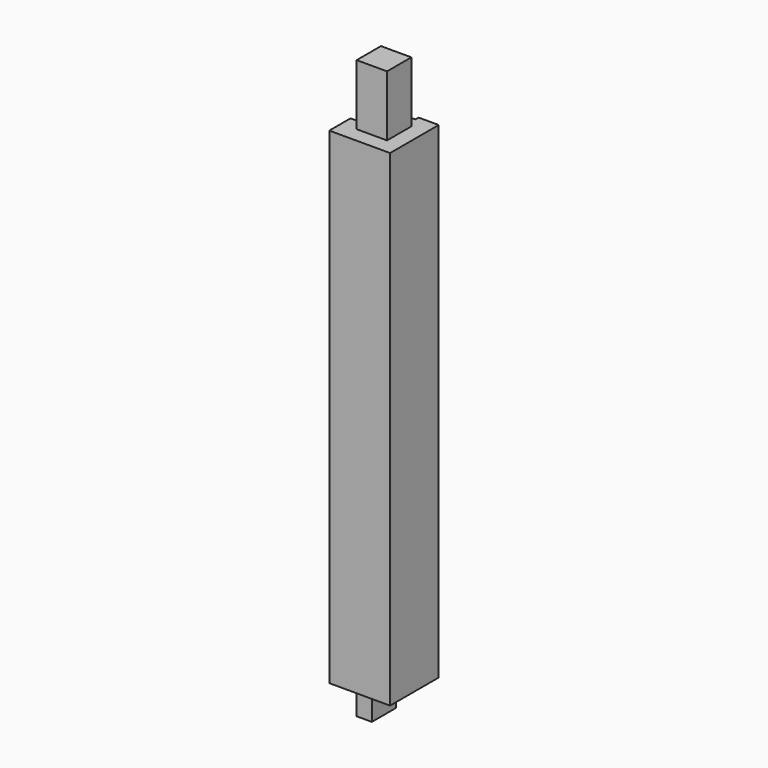
from build123d import *

# Parameters (mm, degrees)
F0_W     = 25.4
F0_H     = 25.4
F1_DEPTH = 203.2
F2_W     = 12.7
F2_H     = 12.7
F3_DEPTH = 12.7
F4_W     = 6.35
F4_H     = 12.7
F5_DEPTH = 12.7
F6_W     = 3.762882
F6_H     = 3.762882
F6_W_2   = 3.175
F6_H_2   = 3.175
F7_DEPTH = 177.8
F8_W     = 12.7
F8_H     = 12.7
F9_DEPTH = 25.4


with BuildPart() as f1:
    # F0 (on Top) → F1 (new body)
    with BuildSketch(Plane.XY):
        Rectangle(F0_W, F0_H)
    extrude(amount=F1_DEPTH)

    # F2 (on face) → F3 (join)
    with BuildSketch(Plane(origin=(0, 0, 0), x_dir=(1, 0, 0), z_dir=(0, 0, -1))):
        Rectangle(F2_W, F2_H)
    extrude(amount=F3_DEPTH)

    # F4 (on face) → F5 (cut)
    with BuildSketch(Plane(origin=(0, 0, -12.7), x_dir=(1, 0, 0), z_dir=(0, 0, -1))):
        with Locations((3.175, 0)):
            Rectangle(F4_W, F4_H)
    extrude(amount=-F5_DEPTH, mode=Mode.SUBTRACT)

    # F6 (on face) → F7 (cut)
    with BuildSketch(Plane.XY.offset(203.2)):
        with Locations((2.426788, 12.867747)):
            Rectangle(F6_W, F6_H)
        with Locations((-11.1125, 0)):
            Rectangle(F6_W_2, F6_H_2)
    extrude(amount=-F7_DEPTH, mode=Mode.SUBTRACT)

    # F8 (on face) → F9 (join)
    with BuildSketch(Plane.XY.offset(203.2)):
        Rectangle(F8_W, F8_H)
    extrude(amount=F9_DEPTH)


solid = f1.part
